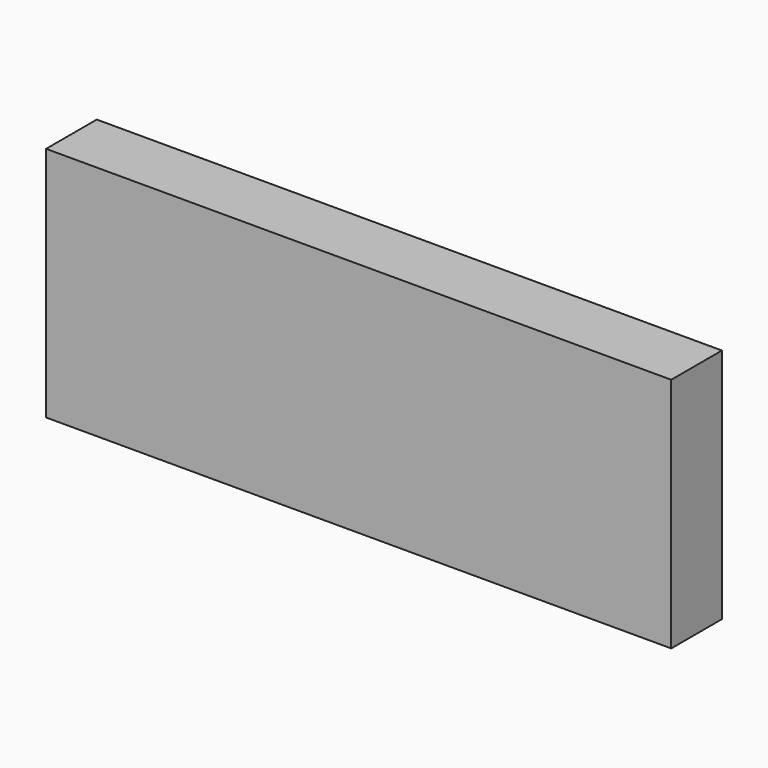
from build123d import *

# Parameters (mm, degrees)
F0_W     = 469.9
F0_H     = 177.8
F1_DEPTH = 19.05
F3_DEPTH = 28.575


with BuildPart() as f1:
    # F0 (on Front) → F1 (new body)
    with BuildSketch(Plane.XZ):
        with Locations((234.95, 88.9)):
            Rectangle(F0_W, F0_H)
    extrude(amount=-F1_DEPTH)

    # F2 (on face) → F3 (join)
    with BuildSketch(Plane(origin=(0, 19.05, 0), x_dir=(-1, 0, 0), z_dir=(0, 1, 0))):
        Polygon((-469.9, 177.8), (-469.9, 0), (-450.85, 0), (-450.85, 158.75), (0, 158.75), (0, 177.8), align=None)
    extrude(amount=F3_DEPTH)


solid = f1.part
